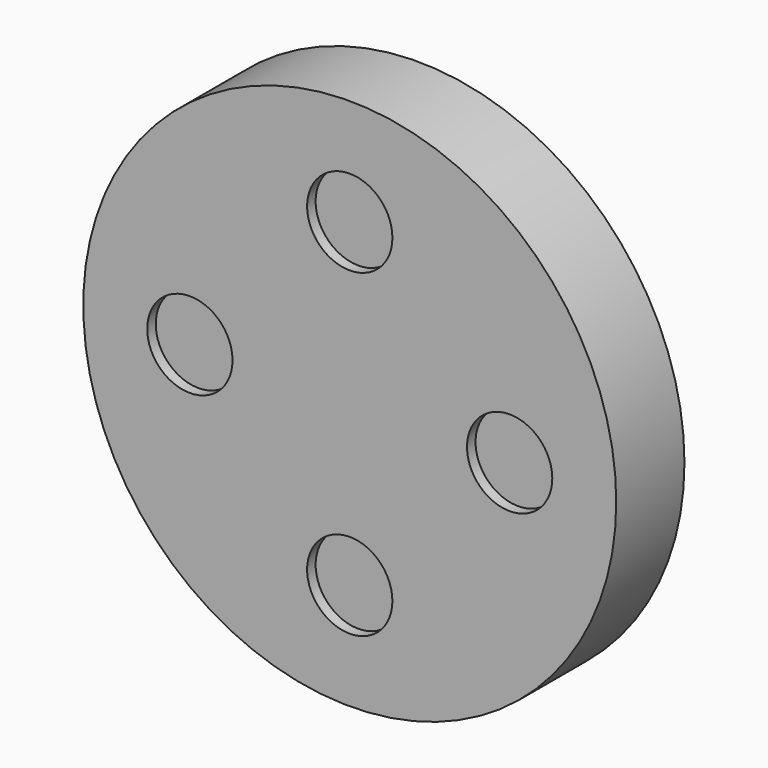
from build123d import *

# Parameters (mm, degrees)
F0_R     = 250
F1_DEPTH = 80
F2_R     = 40
F3_DEPTH = 10


with BuildPart() as f1:
    # F0 (on Front) → F1 (new body)
    with BuildSketch(Plane.XZ):
        Circle(F0_R)
    extrude(amount=F1_DEPTH)

    # F2 (on face) → F3 (cut)
    with BuildSketch(Plane.XZ.offset(80)):
        with Locations((0, 150)):
            Circle(F2_R)
        with Locations((-150, 0)):
            Circle(F2_R)
        with Locations((0, -150)):
            Circle(F2_R)
        with Locations((150, 0)):
            Circle(F2_R)
    extrude(amount=-F3_DEPTH, mode=Mode.SUBTRACT)


solid = f1.part
